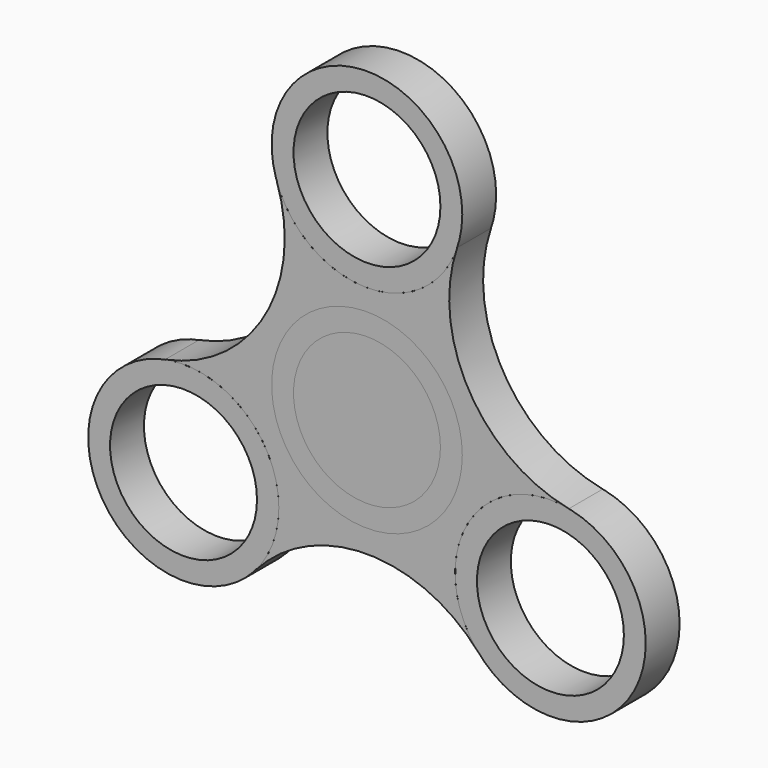
from build123d import *

# Parameters (mm, degrees)
F2_DEPTH = 6.35
F0_R     = 14.2875
F0_R_2   = 11.0109


with BuildPart() as f2:
    # F1 (on Front) → F2 (new body)
    with BuildSketch(Plane.XZ):
        with BuildLine():
            ThreePointArc((-13.5206938879, 27.1322632123), (-15.305469781, 8.8366170981), (-30.257576148, -1.8568672225))
            ThreePointArc((-30.257576148, -1.8568672225), (-18.4221394691, -4.8390520266), (-13.2088065702, -15.875))
            ThreePointArc((-13.2088065702, -15.875), (-14.1198733557, -20.8953277493), (-16.7368822601, -25.2753959899))
            ThreePointArc((-16.7368822601, -25.2753959899), (0, -17.6732341963), (16.7368822601, -25.2753959899))
            ThreePointArc((16.7368822601, -25.2753959899), (15.1229686136, -8.73125), (30.257576148, -1.8568672225))
            ThreePointArc((30.257576148, -1.8568672225), (15.305469781, 8.8366170981), (13.5206938879, 27.1322632123))
            ThreePointArc((13.5206938879, 27.1322632123), (0, 17.4625), (-13.5206938879, 27.1322632123))
        make_face()
    extrude(amount=F2_DEPTH)


with BuildPart() as f2b:
    # F0 (on Front) → F2, piece 2 (new body)
    with BuildSketch(Plane.XZ):
        with Locations((27.4963065702, -15.875)):
            Circle(F0_R)
        with Locations((27.4963065702, -15.875)):
            Circle(F0_R_2, mode=Mode.SUBTRACT)
    extrude(amount=F2_DEPTH)


with BuildPart() as f2c:
    # F0 (on Front) → F2, piece 3 (new body)
    with BuildSketch(Plane.XZ):
        Circle(F0_R)
        Circle(F0_R_2, mode=Mode.SUBTRACT)
    extrude(amount=F2_DEPTH)


with BuildPart() as f2d:
    # F0 (on Front) → F2, piece 4 (new body)
    with BuildSketch(Plane.XZ):
        with Locations((-27.4963065702, -15.875)):
            Circle(F0_R)
        with Locations((-27.4963065702, -15.875)):
            Circle(F0_R_2, mode=Mode.SUBTRACT)
    extrude(amount=F2_DEPTH)


with BuildPart() as f2e:
    # F0 (on Front) → F2, piece 5 (new body)
    with BuildSketch(Plane.XZ):
        with Locations((0, 31.75)):
            Circle(F0_R)
        with Locations((0, 31.75)):
            Circle(F0_R_2, mode=Mode.SUBTRACT)
    extrude(amount=F2_DEPTH)


solid = Compound([f2.part, f2b.part, f2c.part, f2d.part, f2e.part])
